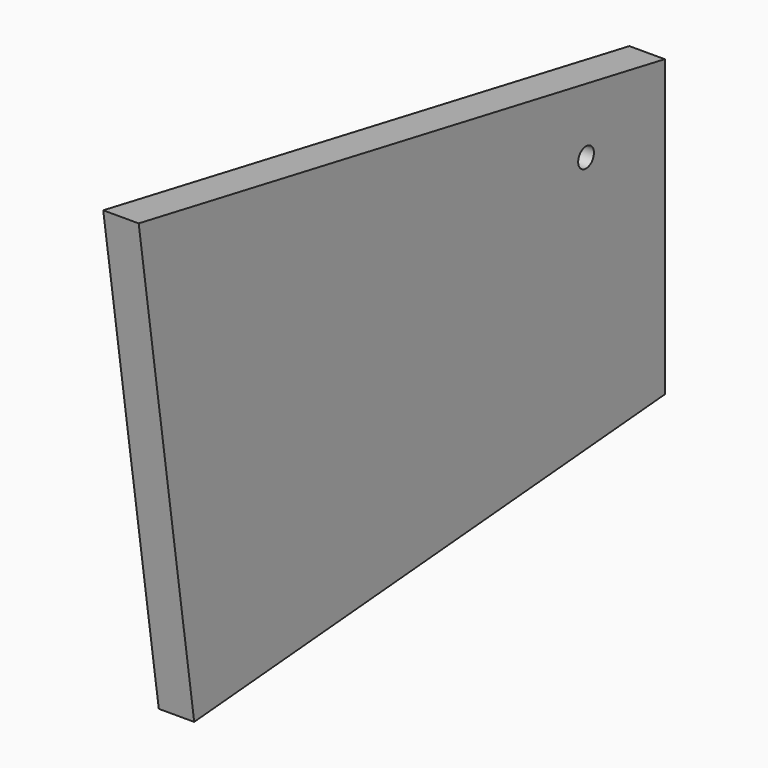
from build123d import *

# Parameters (mm, degrees)
F0_R      = 3.175
F1_DEPTH  = 11.43
F5_DEPTH  = 25.4
F6_D      = 6.35
F6_DEPTH  = 76.2
F6_TIP    = 1.9077324654
F7_D      = 6.35
F7_DEPTH  = 76.2
F7_TIP    = 1.9077324654
F8_D      = 6.35
F8_DEPTH  = 76.2
F8_TIP    = 1.9077324654
F9_D      = 6.35
F9_DEPTH  = 76.2
F9_TIP    = 1.9077324654
F11_DEPTH = 95.25


with BuildPart() as f1:
    # F0 (on Right) → F1 (new body)
    with BuildSketch(Plane.YZ):
        Polygon((122.1165703362, -43.8827651219), (122.1165703362, 51.3672348781), (-90.1177801321, 90.9827682114), (-67.7204277456, -59.7624426779), align=None)
        with Locations((109.9245703362, -34.0493256675)):
            Circle(F0_R, mode=Mode.SUBTRACT)
        with Locations((109.9245703362, 20.0526743325)):
            Circle(F0_R, mode=Mode.SUBTRACT)
        with Locations((90.3665703362, 36.3643222504)):
            Circle(F0_R, mode=Mode.SUBTRACT)
        with Locations((90.3665703362, 36.3643222504)):
            Circle(F0_R)
        with Locations((109.9245703362, 20.0526743325)):
            Circle(F0_R)
        with Locations((109.9245703362, -34.0493256675)):
            Circle(F0_R)
    extrude(amount=F1_DEPTH)


with BuildPart() as f1_1:
    # F2: moved
    add(f1.part.moved(Location((47.625, 0, 0))))


with BuildPart() as f3_1:
    # F3: instance of F1
    add(f1_1.part.mirror(Plane.YZ))

    # F4 (on face) → F5 (cut)
    with BuildSketch(Plane(origin=(-59.055, 0, 0), x_dir=(0, -1, 0), z_dir=(-1, 0, 0))):
        with BuildLine():
            ThreePointArc((17.5834296638, -43.8827651219), (-33.2165703362, 6.9172348781), (-84.0165703362, -43.8827651219))
            ThreePointArc((-84.0165703362, -43.8827651219), (-83.9914140751, -45.4812779607), (-83.9159702065, -47.0782076259))
            Line((-83.9159702065, -47.0782076259), (16.2473795848, -55.4567729935))
            ThreePointArc((16.2473795848, -55.4567729935), (17.2483117898, -49.7081983252), (17.5834296638, -43.8827651219))
        make_face()
        with BuildLine():
            Line((17.5834296638, -55.5685322642), (17.5834296638, -43.8827651219))
            ThreePointArc((17.5834296638, -43.8827651219), (17.2483117898, -49.7081983252), (16.2473795848, -55.4567729935))
            Line((16.2473795848, -55.4567729935), (17.5834296638, -55.5685322642))
        make_face()
    extrude(amount=-F5_DEPTH, mode=Mode.SUBTRACT)

    # F6
    with Locations(Plane.YZ):
        with Locations((90.3665703362, 36.3643222504)):
            Hole(F6_D / 2, depth=F6_DEPTH)
            with Locations((0, 0, -(F6_DEPTH + F6_TIP / 2))):  # 118° drill point
                Cone(0, F6_D / 2, F6_TIP, mode=Mode.SUBTRACT)

    # F7
    with Locations(Plane.YZ):
        with Locations((109.9245703362, 20.0526743325)):
            Hole(F7_D / 2, depth=F7_DEPTH)
            with Locations((0, 0, -(F7_DEPTH + F7_TIP / 2))):  # 118° drill point
                Cone(0, F7_D / 2, F7_TIP, mode=Mode.SUBTRACT)

    # F8
    with Locations(Plane.YZ):
        with Locations((109.9245703362, -34.0493256675)):
            Hole(F8_D / 2, depth=F8_DEPTH)
            with Locations((0, 0, -(F8_DEPTH + F8_TIP / 2))):  # 118° drill point
                Cone(0, F8_D / 2, F8_TIP, mode=Mode.SUBTRACT)


with BuildPart() as f1_2:
    add(f1_1.part)

    # F9
    with Locations(Plane(origin=(0, 0, 0), x_dir=(0, 1, 0), z_dir=(-1, 0, 0))):
        with Locations((90.3665703362, -36.3643222504)):
            Hole(F9_D / 2, depth=F9_DEPTH)
            with Locations((0, 0, -(F9_DEPTH + F9_TIP / 2))):  # 118° drill point
                Cone(0, F9_D / 2, F9_TIP, mode=Mode.SUBTRACT)


with BuildPart() as f11:
    # F10 (on face) → F11 (new body)
    with BuildSketch(Plane(origin=(47.625, 0, 0), x_dir=(0, -1, 0), z_dir=(-1, 0, 0))):
        with BuildLine():
            Line((46.0226261079, 141.3909337274), (55.0595276774, 113.1756901692))
            ThreePointArc((55.0595276774, 113.1756901692), (61.2467442889, 100.0992346093), (66.2609327925, 86.5296637591))
            Line((66.2609327925, 86.5296637591), (48.4415836851, 142.1656880364))
            Line((48.4415836851, 142.1656880364), (46.0226261079, 141.3909337274))
        make_face()
        with BuildLine():
            Line((55.0595276774, 113.1756901692), (63.7442887749, 86.0599085345))
            Line((63.7442887749, 86.0599085345), (66.2609327925, 86.5296637591))
            ThreePointArc((66.2609327925, 86.5296637591), (61.2467442889, 100.0992346093), (55.0595276774, 113.1756901692))
        make_face()
        with BuildLine():
            Line((63.7442887749, 86.0599085345), (63.7439748969, 86.0598499462))
            ThreePointArc((63.7439748969, 86.0598499462), (69.5928864987, 61.5174094181), (71.5584296638, 36.3643222504))
            ThreePointArc((71.5584296638, 36.3643222504), (66.8411203346, -2.4357759317), (52.9640480804, -38.9751723676))
            Line((52.9640480804, -38.9751723676), (55.2290606215, -40.1252095237))
            ThreePointArc((55.2290606215, -40.1252095237), (69.3114207434, -3.0269888444), (74.0984296638, 36.3643222504))
            ThreePointArc((74.0984296638, 36.3643222504), (72.1272426646, 61.7512669557), (66.2609327925, 86.5296637591))
            Line((66.2609327925, 86.5296637591), (63.7442887749, 86.0599085345))
        make_face()
    extrude(amount=F11_DEPTH)


solid = f1_2.part
